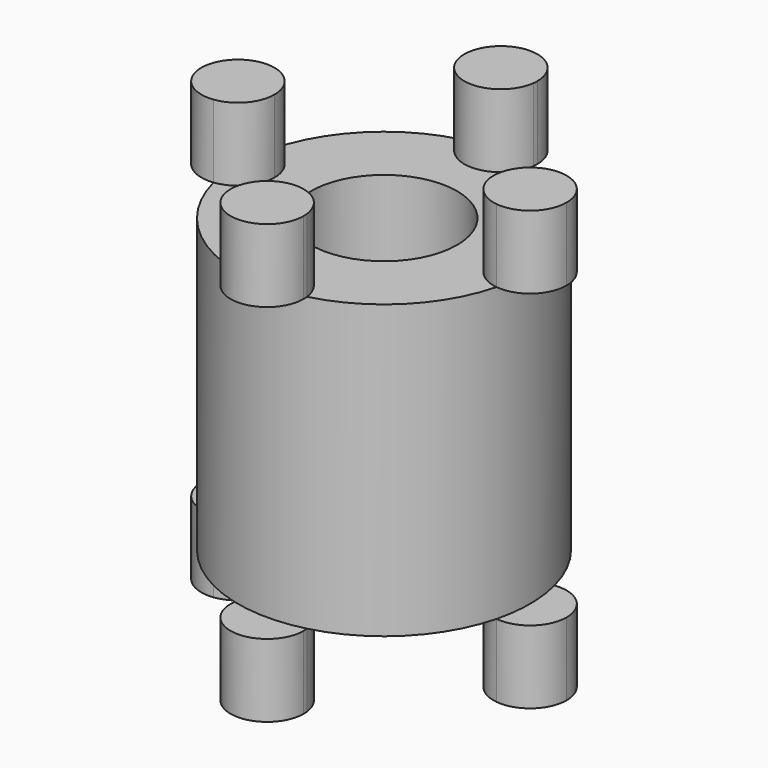
from build123d import *

# Parameters (mm, degrees)
F0_W     = 100
F0_H     = 200
F2_R     = 50
F3_DEPTH = 200
F5_DEPTH = 50


with BuildPart() as f1:
    # F0 (on Front) → F1 (revolve)
    with BuildSketch(Plane.XZ):
        with Locations((-50, 0)):
            Rectangle(F0_W, F0_H)
    revolve(axis=Axis((0, 0, 0), (0, 0, 1)))

    # F2 (on face) → F3 (cut)
    with BuildSketch(Plane(origin=(0, 0, -100), x_dir=(1, 0, 0), z_dir=(0, 0, -1))):
        Circle(F2_R)
    extrude(amount=-F3_DEPTH, mode=Mode.SUBTRACT)

    # F4 (on face) → F5 (join)
    with BuildSketch(Plane(origin=(0, 0, -100), x_dir=(1, 0, 0), z_dir=(0, 0, -1))):
        with BuildLine():
            ThreePointArc((-96.875, 24.803919), (-100, 0), (-96.875, -24.803919))
            ThreePointArc((-96.875, -24.803919), (-81.25, -16.535946), (-75, 0))
            ThreePointArc((-75, 0), (-81.25, 16.535946), (-96.875, 24.803919))
        make_face()
        with BuildLine():
            ThreePointArc((-96.875, 24.803919), (-125, 0), (-96.875, -24.803919))
            ThreePointArc((-96.875, -24.803919), (-100, 0), (-96.875, 24.803919))
        make_face()
        with BuildLine():
            ThreePointArc((-24.803919, -96.875), (-1.565573, -124.950931), (25, -100))
            ThreePointArc((25, -100), (24.950931, -98.434427), (24.803919, -96.875))
            ThreePointArc((24.803919, -96.875), (0, -100), (-24.803919, -96.875))
        make_face()
        with BuildLine():
            ThreePointArc((-24.803919, -96.875), (0, -100), (24.803919, -96.875))
            ThreePointArc((24.803919, -96.875), (0, -75), (-24.803919, -96.875))
        make_face()
        with BuildLine():
            ThreePointArc((-24.803919, 96.875), (0, 100), (24.803919, 96.875))
            ThreePointArc((24.803919, 96.875), (24.950931, 98.434427), (25, 100))
            ThreePointArc((25, 100), (-1.565573, 124.950931), (-24.803919, 96.875))
        make_face()
        with BuildLine():
            ThreePointArc((-24.803919, 96.875), (0, 75), (24.803919, 96.875))
            ThreePointArc((24.803919, 96.875), (0, 100), (-24.803919, 96.875))
        make_face()
        with BuildLine():
            ThreePointArc((100, 0), (99.215674, -12.5), (96.875, -24.803919))
            ThreePointArc((96.875, -24.803919), (116.535946, -18.75), (125, 0))
            ThreePointArc((125, 0), (116.535946, 18.75), (96.875, 24.803919))
            ThreePointArc((96.875, 24.803919), (99.215674, 12.5), (100, 0))
        make_face()
        with BuildLine():
            ThreePointArc((96.875, 24.803919), (75, 0), (96.875, -24.803919))
            ThreePointArc((96.875, -24.803919), (99.215674, -12.5), (100, 0))
            ThreePointArc((100, 0), (99.215674, 12.5), (96.875, 24.803919))
        make_face()
    extrude(amount=F5_DEPTH)

    # F6: F1 across plane


with BuildPart() as f1_1:
    add(f1.part)
    add(f1.part.mirror(Plane.XY))


solid = f1_1.part
